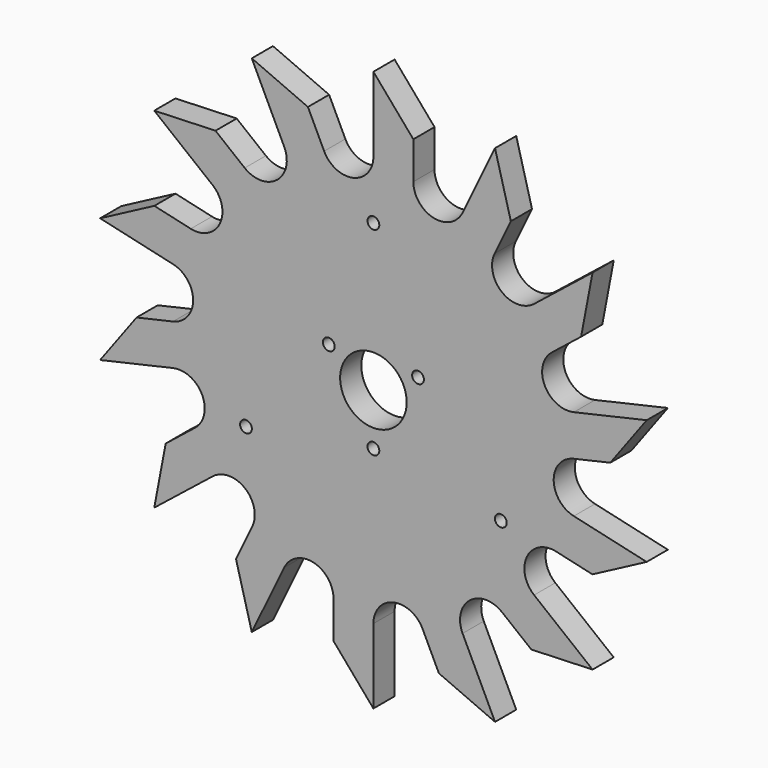
from build123d import *

# Parameters (mm, degrees)
F0_R     = 4
F0_R_2   = 22.606
F1_DEPTH = 18


with BuildPart() as f1:
    # F0 (on Front) → F1 (new body)
    with BuildSketch(Plane.XZ):
        with BuildLine():
            Line((27.142524, 133.504896), (27.142524, 158.904896))
            Line((27.142524, 158.904896), (0, 190.5))
            Line((0, 190.5), (0, 139.7))
            ThreePointArc((0, 139.7), (-13.68935, 122.534098), (-33.471034, 132.060455))
            Line((-33.471034, 132.060455), (-44.491681, 154.945064))
            Line((-44.491681, 154.945064), (-82.654852, 171.634569))
            Line((-82.654852, 171.634569), (-60.613558, 125.865351))
            ThreePointArc((-60.613558, 125.865351), (-65.499231, 104.459821), (-87.455244, 104.459821))
            Line((-87.455244, 104.459821), (-107.313763, 120.296462))
            Line((-107.313763, 120.296462), (-148.938897, 118.774807))
            Line((-148.938897, 118.774807), (-109.221858, 87.101525))
            ThreePointArc((-109.221858, 87.101525), (-104.336186, 65.695996), (-124.11787, 56.169639))
            Line((-124.11787, 56.169639), (-148.881039, 61.821671))
            Line((-148.881039, 61.821671), (-185.723767, 42.390238))
            Line((-185.723767, 42.390238), (-136.197429, 31.086174))
            ThreePointArc((-136.197429, 31.086174), (-122.508079, 13.920272), (-136.197429, -3.245629))
            Line((-136.197429, -3.245629), (-160.960598, -8.897661))
            Line((-160.960598, -8.897661), (-185.723767, -42.390238))
            Line((-185.723767, -42.390238), (-136.197429, -31.086174))
            ThreePointArc((-136.197429, -31.086174), (-116.415745, -40.612531), (-121.301418, -62.018061))
            Line((-121.301418, -62.018061), (-141.159938, -77.854702))
            Line((-141.159938, -77.854702), (-148.938897, -118.774807))
            Line((-148.938897, -118.774807), (-109.221858, -87.101525))
            ThreePointArc((-109.221858, -87.101525), (-87.265845, -87.101525), (-82.380173, -108.507055))
            Line((-82.380173, -108.507055), (-93.40082, -131.391664))
            Line((-93.40082, -131.391664), (-82.654852, -171.634569))
            Line((-82.654852, -171.634569), (-60.613558, -125.865351))
            ThreePointArc((-60.613558, -125.865351), (-40.831874, -116.338994), (-27.142524, -133.504896))
            Line((-27.142524, -133.504896), (-27.142524, -158.904896))
            Line((-27.142524, -158.904896), (0, -190.5))
            Line((0, -190.5), (0, -139.7))
            ThreePointArc((0, -139.7), (13.68935, -122.534098), (33.471034, -132.060455))
            Line((33.471034, -132.060455), (44.491681, -154.945064))
            Line((44.491681, -154.945064), (82.654852, -171.634569))
            Line((82.654852, -171.634569), (60.613558, -125.865351))
            ThreePointArc((60.613558, -125.865351), (65.499231, -104.459821), (87.455244, -104.459821))
            Line((87.455244, -104.459821), (107.313763, -120.296462))
            Line((107.313763, -120.296462), (148.938897, -118.774807))
            Line((148.938897, -118.774807), (109.221858, -87.101525))
            ThreePointArc((109.221858, -87.101525), (104.336186, -65.695996), (124.11787, -56.169639))
            Line((124.11787, -56.169639), (148.881039, -61.821671))
            Line((148.881039, -61.821671), (185.723767, -42.390238))
            Line((185.723767, -42.390238), (136.197429, -31.086174))
            ThreePointArc((136.197429, -31.086174), (122.508079, -13.920272), (136.197429, 3.245629))
            Line((136.197429, 3.245629), (160.960598, 8.897661))
            Line((160.960598, 8.897661), (185.723767, 42.390238))
            Line((185.723767, 42.390238), (136.197429, 31.086174))
            ThreePointArc((136.197429, 31.086174), (116.415745, 40.612531), (121.301418, 62.018061))
            Line((121.301418, 62.018061), (141.159938, 77.854702))
            Line((141.159938, 77.854702), (148.938897, 118.774807))
            Line((148.938897, 118.774807), (109.221858, 87.101525))
            ThreePointArc((109.221858, 87.101525), (87.265845, 87.101525), (82.380173, 108.507055))
            Line((82.380173, 108.507055), (93.40082, 131.391664))
            Line((93.40082, 131.391664), (82.654852, 171.634569))
            Line((82.654852, 171.634569), (60.613558, 125.865351))
            ThreePointArc((60.613558, 125.865351), (40.831874, 116.338994), (27.142524, 133.504896))
        make_face()
        with Locations((-86.60254, -50)):
            Circle(F0_R, mode=Mode.SUBTRACT)
        with Locations((0, -35)):
            Circle(F0_R, mode=Mode.SUBTRACT)
        with Locations((86.60254, -50)):
            Circle(F0_R, mode=Mode.SUBTRACT)
        with Locations((-30.310889, 17.5)):
            Circle(F0_R, mode=Mode.SUBTRACT)
        Circle(F0_R_2, mode=Mode.SUBTRACT)
        with Locations((0, 100)):
            Circle(F0_R, mode=Mode.SUBTRACT)
        with Locations((30.310889, 17.5)):
            Circle(F0_R, mode=Mode.SUBTRACT)
    extrude(amount=F1_DEPTH)


solid = f1.part
